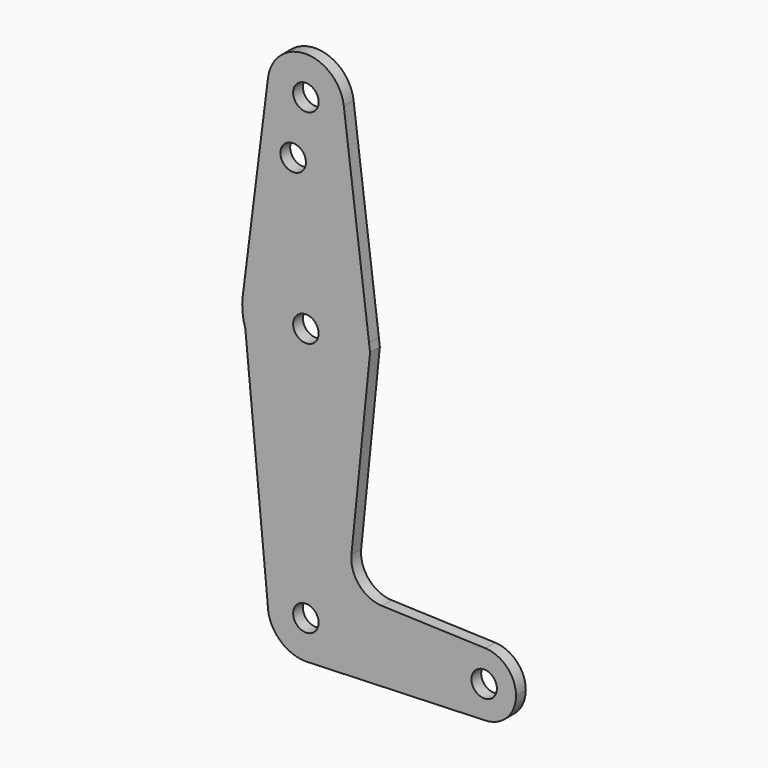
from build123d import *

# Parameters (mm, degrees)
F0_R     = 3.175
F1_DEPTH = 3.048


with BuildPart() as f1:
    # F0 (on Front) → F1 (new body)
    with BuildSketch(Plane.XZ):
        with BuildLine():
            ThreePointArc((-9.4502929642, 115.490625), (-0.596483242, 104.7936951058), (9.525, 114.3))
            ThreePointArc((9.525, 114.3), (9.5063048942, 114.896483242), (9.4502929642, 115.490625))
            ThreePointArc((9.4502929642, 115.490625), (0, 123.825), (-9.4502929642, 115.490625))
        make_face()
        with Locations((0, 114.3)):
            Circle(F0_R, mode=Mode.SUBTRACT)
        with BuildLine():
            ThreePointArc((9.4502929642, 115.490625), (9.5063048942, 114.896483242), (9.525, 114.3))
            ThreePointArc((9.525, 114.3), (-0.596483242, 104.7936951058), (-9.4502929642, 115.490625))
            Line((-9.4502929642, 115.490625), (-15.7504882737, 65.484375))
            ThreePointArc((-15.7504882737, 65.484375), (-1.68e-08, 79.375), (15.7504882695, 65.4843750333))
            Line((15.7504882695, 65.4843750333), (9.4502929642, 115.490625))
        make_face()
        with Locations((-3.175, 100.0252)):
            Circle(F0_R, mode=Mode.SUBTRACT)
        with BuildLine():
            Line((16.0004960241, 63.5), (15.7504882695, 65.4843750333))
            ThreePointArc((15.7504882695, 65.4843750333), (15.8438414893, 64.4941387534), (15.875, 63.5))
            ThreePointArc((15.875, 63.5), (2.4891626269, 47.8213618443), (-15.0944103202, 58.583252896))
            Line((-15.0944103202, 58.583252896), (-9.525, 0))
            ThreePointArc((-9.525, 0), (0, 9.525), (9.525, 0))
            ThreePointArc((9.525, 0), (6.9705567315, -6.4912990883), (0.6773435479, -9.500885786))
            Line((0.6773435479, -9.500885786), (44.7324052746, -7.9324746146))
            ThreePointArc((44.7324052746, -7.9324746146), (36.5125, 0), (44.7324052746, 7.9324746146))
            Line((44.7324052746, 7.9324746146), (18.981380346, 8.8492408973))
            ThreePointArc((18.981380346, 8.8492408973), (13.2724295342, 11.5690923886), (11.3544460937, 17.5949575571))
            Line((11.3544460937, 17.5949575571), (16.0004960241, 63.5))
        make_face()
        with BuildLine():
            ThreePointArc((15.875, 63.5), (15.8438414893, 64.4941387534), (15.7504882695, 65.4843750333))
            ThreePointArc((15.7504882695, 65.4843750333), (-1.68e-08, 79.375), (-15.7504882737, 65.484375))
            Line((-15.7504882737, 65.484375), (-15.0944103202, 58.583252896))
            ThreePointArc((-15.0944103202, 58.583252896), (2.4891626269, 47.8213618443), (15.875, 63.5))
        make_face()
        with Locations((0, 63.5)):
            Circle(F0_R, mode=Mode.SUBTRACT)
        with BuildLine():
            Line((-15.0944103202, 58.583252896), (-15.7504882737, 65.484375))
            ThreePointArc((-15.7504882737, 65.484375), (-15.8037436669, 61.9975649401), (-15.0944103202, 58.583252896))
        make_face()
        with BuildLine():
            ThreePointArc((9.525, 0), (0, 9.525), (-9.525, 0))
            ThreePointArc((-9.525, 0), (-6.7351920908, -6.7351920908), (0, -9.525))
            Line((0, -9.525), (0.6773435479, -9.500885786))
            ThreePointArc((0.6773435479, -9.500885786), (6.9705567315, -6.4912990883), (9.525, 0))
        make_face()
        Circle(F0_R, mode=Mode.SUBTRACT)
        with BuildLine():
            Line((0.6773435479, -9.500885786), (0, -9.525))
            ThreePointArc((0, -9.525), (0.3388863295, -9.5189695375), (0.6773435479, -9.500885786))
        make_face()
        with BuildLine():
            ThreePointArc((52.3875, 0), (50.1616327839, 5.5119104847), (44.7324052746, 7.9324746146))
            ThreePointArc((44.7324052746, 7.9324746146), (36.5125, 0), (44.7324052746, -7.9324746146))
            ThreePointArc((44.7324052746, -7.9324746146), (50.1616327839, -5.5119104847), (52.3875, 0))
        make_face()
        with Locations((44.45, 0)):
            Circle(F0_R, mode=Mode.SUBTRACT)
    extrude(amount=F1_DEPTH)


solid = f1.part
